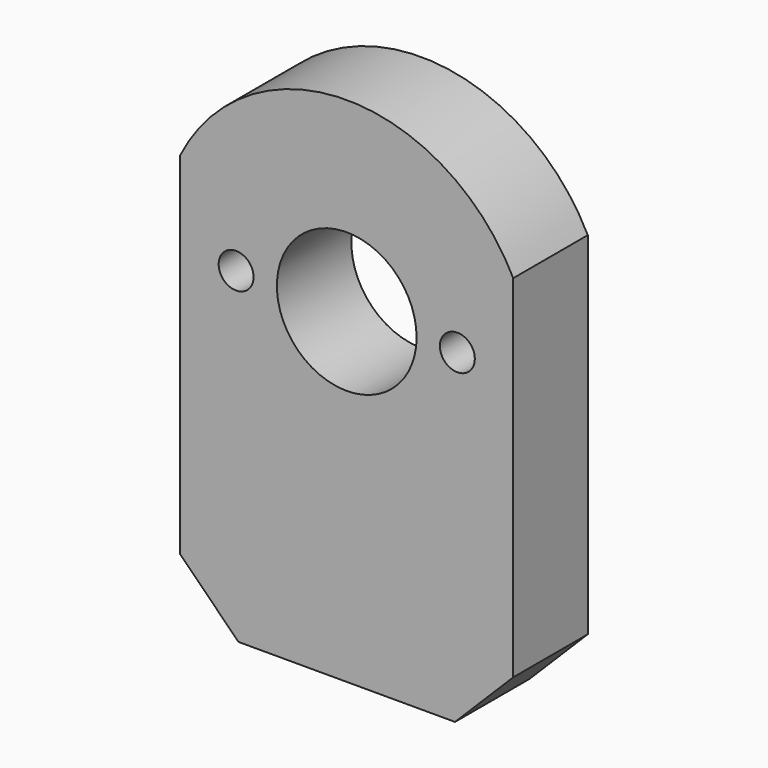
from build123d import *

# Parameters (mm, degrees)
F0_R     = 1.5
F0_R_2   = 6
F1_DEPTH = 8


with BuildPart() as f1:
    # F0 (on Front) → F1 (new body)
    with BuildSketch(Plane.XZ):
        with BuildLine():
            Line((-14.3, -23), (-9.3, -28))
            Line((-9.3, -28), (9.3, -28))
            Line((9.3, -28), (14.3, -23))
            Line((14.3, -23), (14.3, 7.177047))
            ThreePointArc((14.3, 7.177047), (0, 16), (-14.3, 7.177047))
            Line((-14.3, 7.177047), (-14.3, -23))
        make_face()
        with Locations((-9.5, 0)):
            Circle(F0_R, mode=Mode.SUBTRACT)
        Circle(F0_R_2, mode=Mode.SUBTRACT)
        with Locations((9.5, 0)):
            Circle(F0_R, mode=Mode.SUBTRACT)
    extrude(amount=F1_DEPTH)


solid = f1.part
